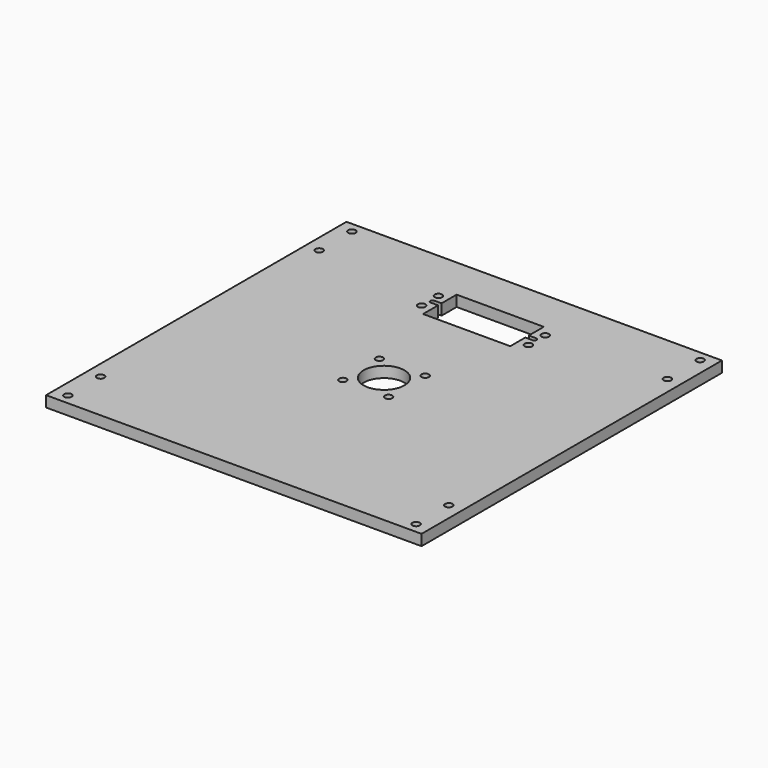
from build123d import *

# Parameters (mm, degrees)
F0_W     = 175.017152
F0_H     = 175.017152
F0_R     = 1.7272
F0_R_2   = 9.525
F1_DEPTH = 5.08


with BuildPart() as f1:
    # F0 (on Top) → F1 (new body)
    with BuildSketch(Plane.XY):
        Rectangle(F0_W, F0_H)
        with Locations((-81.158576, -82.746076)):
            Circle(F0_R, mode=Mode.SUBTRACT)
        with Locations((-81.158576, -63.696076)):
            Circle(F0_R, mode=Mode.SUBTRACT)
        with Locations((-10.664054, -10.664054)):
            Circle(F0_R, mode=Mode.SUBTRACT)
        with Locations((81.158576, -82.746076)):
            Circle(F0_R, mode=Mode.SUBTRACT)
        with Locations((81.158576, -63.696076)):
            Circle(F0_R, mode=Mode.SUBTRACT)
        with Locations((10.664054, -10.664054)):
            Circle(F0_R, mode=Mode.SUBTRACT)
        with Locations((-10.664054, 10.664054)):
            Circle(F0_R, mode=Mode.SUBTRACT)
        with Locations((-81.158576, 63.696076)):
            Circle(F0_R, mode=Mode.SUBTRACT)
        with Locations((-81.158576, 82.746076)):
            Circle(F0_R, mode=Mode.SUBTRACT)
        with Locations((-24.892, 53.050918)):
            Circle(F0_R, mode=Mode.SUBTRACT)
        with Locations((-24.892, 62.829918)):
            Circle(F0_R, mode=Mode.SUBTRACT)
        Circle(F0_R_2, mode=Mode.SUBTRACT)
        with Locations((10.664054, 10.664054)):
            Circle(F0_R, mode=Mode.SUBTRACT)
        with BuildLine():
            Line((-20.32, 58.956418), (-20.32, 67.719418))
            Line((-20.32, 67.719418), (20.32, 67.719418))
            Line((20.32, 67.719418), (20.32, 58.956418))
            Line((20.32, 58.956418), (23.749, 58.956418))
            ThreePointArc((23.749, 58.956418), (24.765, 57.940418), (23.749, 56.924418))
            Line((23.749, 56.924418), (20.32, 56.924418))
            Line((20.32, 56.924418), (20.32, 48.161418))
            Line((20.32, 48.161418), (-20.32, 48.161418))
            Line((-20.32, 48.161418), (-20.32, 56.924418))
            Line((-20.32, 56.924418), (-23.749, 56.924418))
            ThreePointArc((-23.749, 56.924418), (-24.765, 57.940418), (-23.749, 58.956418))
            Line((-23.749, 58.956418), (-20.32, 58.956418))
        make_face(mode=Mode.SUBTRACT)
        with Locations((24.892, 53.050918)):
            Circle(F0_R, mode=Mode.SUBTRACT)
        with Locations((24.892, 62.829918)):
            Circle(F0_R, mode=Mode.SUBTRACT)
        with Locations((81.158576, 63.696076)):
            Circle(F0_R, mode=Mode.SUBTRACT)
        with Locations((81.158576, 82.746076)):
            Circle(F0_R, mode=Mode.SUBTRACT)
    extrude(amount=F1_DEPTH)


solid = f1.part
